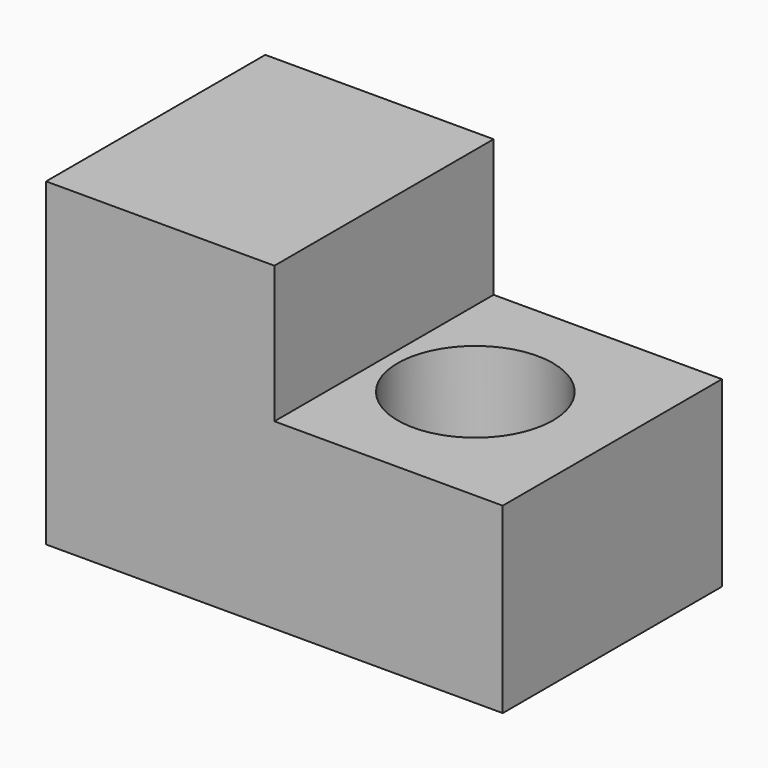
from build123d import *

# Parameters (mm, degrees)
F1_DEPTH      = 38.1
F1_DEPTH_BACK = 38.1
F2_R          = 21.59
F3_DEPTH      = 50.8


with BuildPart() as f1:
    # F0 (on Front) → F1 (new body, two sides)
    with BuildSketch(Plane.XZ) as f1_sk:
        Polygon((23.1775, 63.766758), (-40.3225, 63.766758), (-40.3225, -25.133242), (23.1775, -25.133242), (86.6775, -25.133242), (86.6775, 25.666758), (23.1775, 25.666758), align=None)
    extrude(amount=F1_DEPTH)
    extrude(f1_sk.sketch, amount=-F1_DEPTH_BACK)

    # F2 (on face) → F3 (cut, through all)
    with BuildSketch(Plane.XY.offset(25.666758)):
        with Locations((48.5775, 0)):
            Circle(F2_R)
    extrude(amount=-F3_DEPTH, mode=Mode.SUBTRACT)


solid = f1.part
